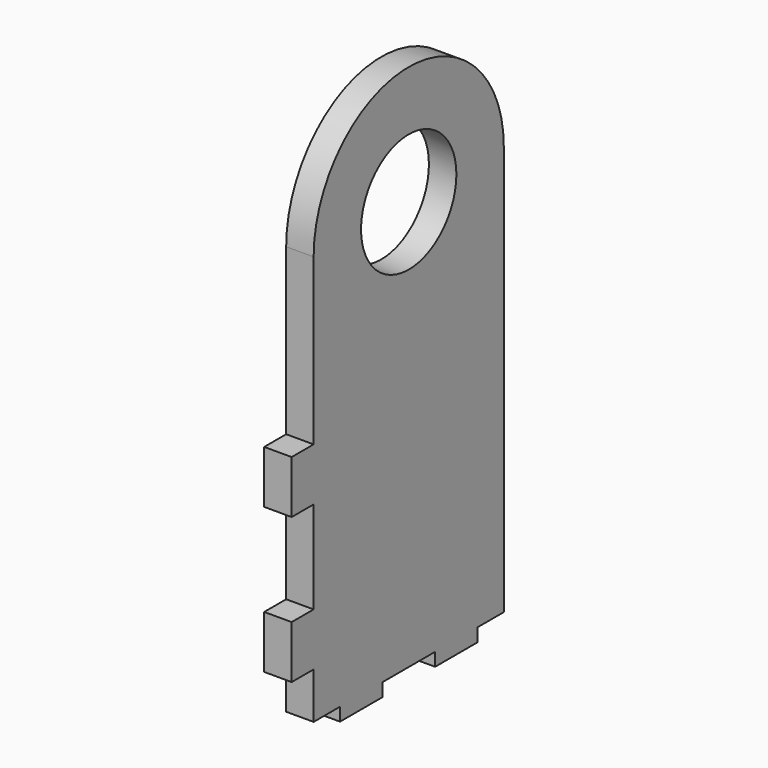
from build123d import *

# Parameters (mm, degrees)
F1_R     = 14.31925
F1_W     = 12.7
F1_H     = 3.175
F1_W_2   = 6.604
F1_H_2   = 12.7
F2_DEPTH = 6.604


with BuildPart() as f2:
    # F1 (on offset) → F2 (new body)
    with BuildSketch(Plane.YZ.offset(101.6)):
        Polygon((28.575, 0), (28.575, 69.85), (0, 69.85), (-28.575, 69.85), (-28.575, 58.7375), (-28.575, 46.0375), (-28.575, 23.8125), (-28.575, 11.1125), (-28.575, 0), (-20.6375, 0), (-7.9375, 0), (7.9375, 0), (20.6375, 0), align=None)
        with BuildLine():
            Line((0, 69.85), (28.575, 69.85))
            Line((28.575, 69.85), (28.575, 98.425))
            ThreePointArc((28.575, 98.425), (20.205576, 78.219424), (0, 69.85))
        make_face()
        with BuildLine():
            Line((-28.575, 69.85), (0, 69.85))
            ThreePointArc((0, 69.85), (-20.205576, 78.219424), (-28.575, 98.425))
            Line((-28.575, 98.425), (-28.575, 69.85))
        make_face()
        with BuildLine():
            ThreePointArc((-28.575, 98.425), (-20.205576, 78.219424), (0, 69.85))
            ThreePointArc((0, 69.85), (20.205576, 78.219424), (28.575, 98.425))
            ThreePointArc((28.575, 98.425), (0, 127), (-28.575, 98.425))
        make_face()
        with Locations((0, 98.425)):
            Circle(F1_R, mode=Mode.SUBTRACT)
        with Locations((14.2875, -1.5875)):
            Rectangle(F1_W, F1_H)
        with Locations((-31.877, 52.3875)):
            Rectangle(F1_W_2, F1_H_2)
        with Locations((-14.2875, -1.5875)):
            Rectangle(F1_W, F1_H)
        with Locations((-31.877, 17.4625)):
            Rectangle(F1_W_2, F1_H_2)
    extrude(amount=F2_DEPTH)


solid = f2.part
